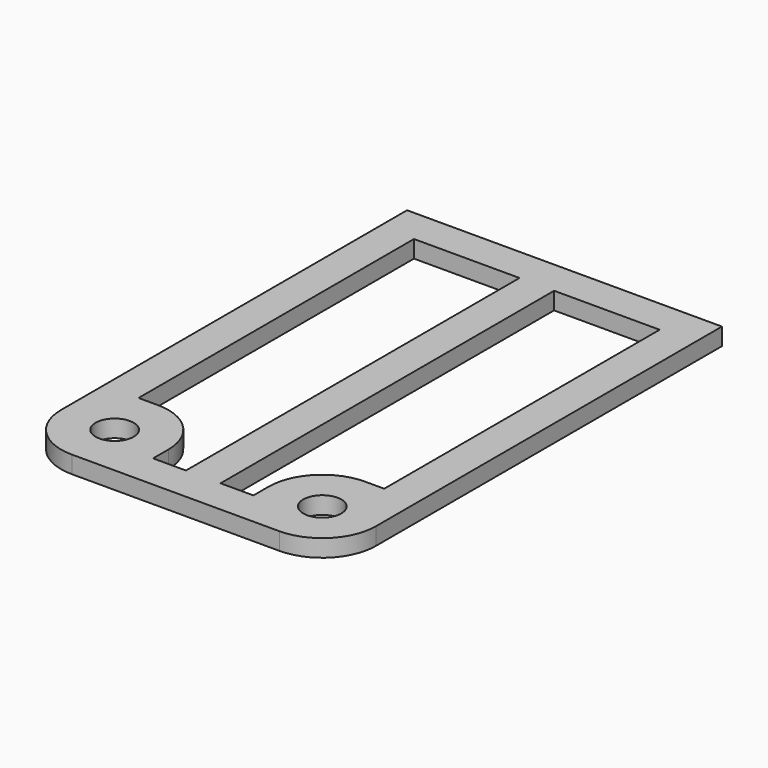
from build123d import *

# Parameters (mm, degrees)
SKETCH_R  = 2.2
PAD_DEPTH = 2


with BuildPart() as part:
    # Sketch → Pad (new body)
    with BuildSketch(Plane.XY):
        with BuildLine():
            ThreePointArc((12, -6.2), (16.384062, -4.384062), (18.2, 0))
            Line((18.2, 0), (18.2, 50))
            Line((18.2, 50), (0, 50))
            Line((0, -6.2), (0, 50))
            Line((12, -6.2), (0, -6.2))
        make_face()
        with Locations((12, 0)):
            Circle(SKETCH_R, mode=Mode.SUBTRACT)
        with BuildLine():
            ThreePointArc((12, 6.2), (7.615938, 4.384062), (5.8, 0))
            Line((5.8, 0), (5.8, -2.2))
            Line((5.8, -2.2), (2, -2.2))
            Line((2, 46), (2, -2.2))
            Line((14.2, 46), (2, 46))
            Line((14.2, 46), (14.2, 6.2))
            Line((12, 6.2), (14.2, 6.2))
        make_face(mode=Mode.SUBTRACT)
    pad = extrude(amount=PAD_DEPTH)

    # Mirrored: Pad across Sketch V_Axis
    add(pad.mirror(Plane(origin=(0, 0, 0), x_dir=(0, 0, 1), z_dir=(1, 0, 0))))


solid = part.part
